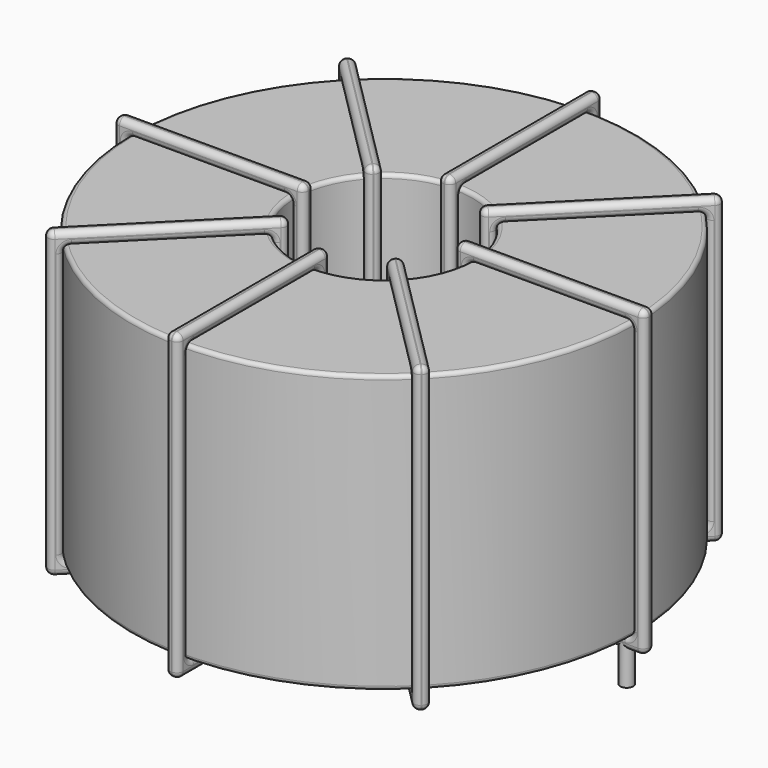
from build123d import *

# Parameters (mm, degrees)
SKETCH001_R       = 0.85
PAD001_DEPTH      = 0.85
PAD001_DEPTH_BACK = 5.2
SKETCH_R          = 32.85
SKETCH_R_2        = 11.516667
PAD_DEPTH         = 36.1
FILLET_R          = 0.5
SKETCH003_W       = 24.733333
SKETCH003_H       = 39.5
SKETCH003_W_2     = 21.333333
SKETCH003_H_2     = 36.1
PAD002_DEPTH      = 0.85
FILLET001_R       = 0.799
SKETCH004_W       = 24.733333
SKETCH004_H       = 39.5
SKETCH004_W_2     = 21.333333
SKETCH004_H_2     = 36.1
PAD003_DEPTH      = 0.85
FILLET002_R       = 0.799
SKETCH005_W       = 24.733333
SKETCH005_H       = 39.5
SKETCH005_W_2     = 21.333333
SKETCH005_H_2     = 36.1
PAD004_DEPTH      = 0.85
FILLET003_R       = 0.799
SKETCH006_W       = 24.733333
SKETCH006_H       = 39.5
SKETCH006_W_2     = 21.333333
SKETCH006_H_2     = 36.1
PAD005_DEPTH      = 0.85
FILLET004_R       = 0.799


with BuildPart() as pad001:
    # Sketch001 → Pad001 (new body, two sides)
    with BuildSketch(Plane.XY.offset(1.35)) as pad001_sk:
        Circle(SKETCH001_R)
        with Locations((63.2, 0)):
            Circle(SKETCH001_R)
    extrude(amount=PAD001_DEPTH)
    extrude(pad001_sk.sketch, amount=-PAD001_DEPTH_BACK)


with BuildPart() as fillet_body:
    # Sketch → Pad (new body)
    with BuildSketch(Plane.XY.offset(2.2)):
        with Locations((31.6, 0)):
            Circle(SKETCH_R)
        with Locations((31.6, 0)):
            Circle(SKETCH_R_2, mode=Mode.SUBTRACT)
    extrude(amount=PAD_DEPTH)

    # Fillet
    fillet_edges = [fillet_body.edges().sort_by_distance(p)[0] for p in [
        (20.083333, 0, 38.3),
        (-1.25, 0, 38.3),
        (-1.25, 0, 2.2),
    ]]
    fillet(fillet_edges, radius=FILLET_R)


with BuildPart() as fillet001:
    # Sketch003 → Pad002 (new body, symmetric)
    with BuildSketch(Plane(origin=(31.6, 0, 0), x_dir=(1, 0, 0), z_dir=(0, -1, 0))):
        with Locations((-22.183333, 20.25)):
            Rectangle(SKETCH003_W, SKETCH003_H)
        with Locations((-22.183333, 20.25)):
            Rectangle(SKETCH003_W_2, SKETCH003_H_2, mode=Mode.SUBTRACT)
        with Locations((22.183333, 20.25)):
            Rectangle(SKETCH003_W, SKETCH003_H)
        with Locations((22.183333, 20.25)):
            Rectangle(SKETCH003_W_2, SKETCH003_H_2, mode=Mode.SUBTRACT)
    extrude(amount=PAD002_DEPTH, both=True)

    # Fillet001
    fillet001_edges = [fillet001.edges().sort_by_distance(p)[0] for p in [
        (20.083333, 0, 38.3),
        (20.083333, 0, 2.2),
        (20.083333, 0.85, 20.25),
        (20.083333, -0.85, 20.25),
        (-2.95, 0, 40),
        (21.783333, 0, 40),
        (9.416667, 0.85, 40),
        (9.416667, -0.85, 40),
        (21.783333, 0, 0.5),
        (21.783333, 0.85, 20.25),
        (21.783333, -0.85, 20.25),
        (43.116667, 0, 38.3),
        (64.45, 0, 38.3),
        (53.783333, 0.85, 38.3),
        (53.783333, -0.85, 38.3),
        (64.45, 0, 2.2),
        (64.45, 0.85, 20.25),
        (64.45, -0.85, 20.25),
        (41.416667, 0, 40),
        (66.15, 0, 40),
        (53.783333, 0.85, 40),
        (53.783333, -0.85, 40),
        (66.15, 0, 0.5),
        (66.15, 0.85, 20.25),
        (66.15, -0.85, 20.25),
        (-1.25, 0, 38.3),
        (9.416667, 0.85, 38.3),
        (9.416667, -0.85, 38.3),
        (43.116667, 0, 2.2),
        (43.116667, 0.85, 20.25),
        (43.116667, -0.85, 20.25),
        (53.783333, 0.85, 2.2),
        (53.783333, -0.85, 2.2),
        (41.416667, 0, 0.5),
        (53.783333, 0.85, 0.5),
        (53.783333, -0.85, 0.5),
        (41.416667, 0.85, 20.25),
        (41.416667, -0.85, 20.25),
        (-2.95, 0, 0.5),
        (9.416667, 0.85, 0.5),
        (9.416667, -0.85, 0.5),
        (-2.95, 0.85, 20.25),
        (-2.95, -0.85, 20.25),
        (-1.25, 0, 2.2),
        (-1.25, 0.85, 20.25),
        (-1.25, -0.85, 20.25),
        (9.416667, 0.85, 2.2),
        (9.416667, -0.85, 2.2),
    ]]
    fillet(fillet001_edges, radius=FILLET001_R)


with BuildPart() as fillet002:
    # Sketch004 → Pad003 (new body, symmetric)
    with BuildSketch(Plane(origin=(31.6, 0, 0), x_dir=(0.707107, 0.707107, 0), z_dir=(0.707107, -0.707107, 0))):
        with Locations((-22.183333, 20.25)):
            Rectangle(SKETCH004_W, SKETCH004_H)
        with Locations((-22.183333, 20.25)):
            Rectangle(SKETCH004_W_2, SKETCH004_H_2, mode=Mode.SUBTRACT)
        with Locations((22.183333, 20.25)):
            Rectangle(SKETCH004_W, SKETCH004_H)
        with Locations((22.183333, 20.25)):
            Rectangle(SKETCH004_W_2, SKETCH004_H_2, mode=Mode.SUBTRACT)
    extrude(amount=PAD003_DEPTH, both=True)

    # Fillet002
    fillet002_edges = [fillet002.edges().sort_by_distance(p)[0] for p in [
        (39.743513, 8.143513, 38.3),
        (54.828458, 23.228458, 2.2),
        (46.684945, 16.287026, 2.2),
        (47.887026, 15.084945, 2.2),
        (56.030539, 24.430539, 0.5),
        (38.541432, 6.941432, 0.5),
        (46.684945, 16.287026, 0.5),
        (47.887026, 15.084945, 0.5),
        (38.541432, 6.941432, 40),
        (37.940391, 7.542472, 20.25),
        (39.142472, 6.340391, 20.25),
        (8.371542, -23.228458, 2.2),
        (8.371542, -23.228458, 38.3),
        (7.770501, -22.627417, 20.25),
        (8.972583, -23.829499, 20.25),
        (23.456487, -8.143513, 2.2),
        (15.312974, -15.084945, 2.2),
        (16.515055, -16.287026, 2.2),
        (24.658568, -6.941432, 40),
        (24.658568, -6.941432, 0.5),
        (24.057528, -6.340391, 20.25),
        (25.259609, -7.542472, 20.25),
        (7.169461, -24.430539, 40),
        (15.312974, -15.084945, 40),
        (16.515055, -16.287026, 40),
        (39.743513, 8.143513, 2.2),
        (39.142472, 8.744554, 20.25),
        (40.344554, 7.542472, 20.25),
        (23.456487, -8.143513, 38.3),
        (15.312974, -15.084945, 38.3),
        (16.515055, -16.287026, 38.3),
        (22.855446, -7.542472, 20.25),
        (24.057528, -8.744554, 20.25),
        (7.169461, -24.430539, 0.5),
        (6.56842, -23.829499, 20.25),
        (7.770501, -25.03158, 20.25),
        (15.312974, -15.084945, 0.5),
        (16.515055, -16.287026, 0.5),
        (56.030539, 24.430539, 40),
        (46.684945, 16.287026, 40),
        (47.887026, 15.084945, 40),
        (55.429499, 25.03158, 20.25),
        (56.63158, 23.829499, 20.25),
        (54.828458, 23.228458, 38.3),
        (46.684945, 16.287026, 38.3),
        (47.887026, 15.084945, 38.3),
        (54.227417, 23.829499, 20.25),
        (55.429499, 22.627417, 20.25),
    ]]
    fillet(fillet002_edges, radius=FILLET002_R)


with BuildPart() as fillet003:
    # Sketch005 → Pad004 (new body, symmetric)
    with BuildSketch(Plane(origin=(31.6, 0, 0), x_dir=(0.707107, -0.707107, 0), z_dir=(-0.707107, -0.707107, 0))):
        with Locations((-22.183333, 20.25)):
            Rectangle(SKETCH005_W, SKETCH005_H)
        with Locations((-22.183333, 20.25)):
            Rectangle(SKETCH005_W_2, SKETCH005_H_2, mode=Mode.SUBTRACT)
        with Locations((22.183333, 20.25)):
            Rectangle(SKETCH005_W, SKETCH005_H)
        with Locations((22.183333, 20.25)):
            Rectangle(SKETCH005_W_2, SKETCH005_H_2, mode=Mode.SUBTRACT)
    extrude(amount=PAD004_DEPTH, both=True)

    # Fillet003
    fillet003_edges = [fillet003.edges().sort_by_distance(p)[0] for p in [
        (23.456487, 8.143513, 38.3),
        (23.456487, 8.143513, 2.2),
        (24.057528, 8.744554, 20.25),
        (22.855446, 7.542472, 20.25),
        (7.169461, 24.430539, 40),
        (24.658568, 6.941432, 40),
        (16.515055, 16.287026, 40),
        (15.312974, 15.084945, 40),
        (24.658568, 6.941432, 0.5),
        (25.259609, 7.542472, 20.25),
        (24.057528, 6.340391, 20.25),
        (39.743513, -8.143513, 38.3),
        (54.828458, -23.228458, 38.3),
        (47.887026, -15.084945, 38.3),
        (46.684945, -16.287026, 38.3),
        (54.828458, -23.228458, 2.2),
        (55.429499, -22.627417, 20.25),
        (54.227417, -23.829499, 20.25),
        (38.541432, -6.941432, 40),
        (56.030539, -24.430539, 40),
        (47.887026, -15.084945, 40),
        (46.684945, -16.287026, 40),
        (56.030539, -24.430539, 0.5),
        (56.63158, -23.829499, 20.25),
        (55.429499, -25.03158, 20.25),
        (8.371542, 23.228458, 38.3),
        (16.515055, 16.287026, 38.3),
        (15.312974, 15.084945, 38.3),
        (39.743513, -8.143513, 2.2),
        (40.344554, -7.542472, 20.25),
        (39.142472, -8.744554, 20.25),
        (47.887026, -15.084945, 2.2),
        (46.684945, -16.287026, 2.2),
        (38.541432, -6.941432, 0.5),
        (47.887026, -15.084945, 0.5),
        (46.684945, -16.287026, 0.5),
        (39.142472, -6.340391, 20.25),
        (37.940391, -7.542472, 20.25),
        (7.169461, 24.430539, 0.5),
        (16.515055, 16.287026, 0.5),
        (15.312974, 15.084945, 0.5),
        (7.770501, 25.03158, 20.25),
        (6.56842, 23.829499, 20.25),
        (8.371542, 23.228458, 2.2),
        (8.972583, 23.829499, 20.25),
        (7.770501, 22.627417, 20.25),
        (16.515055, 16.287026, 2.2),
        (15.312974, 15.084945, 2.2),
    ]]
    fillet(fillet003_edges, radius=FILLET003_R)


with BuildPart() as fillet004:
    # Sketch006 → Pad005 (new body, symmetric)
    with BuildSketch(Plane.YZ.offset(31.6)):
        with Locations((-22.183333, 20.25)):
            Rectangle(SKETCH006_W, SKETCH006_H)
        with Locations((-22.183333, 20.25)):
            Rectangle(SKETCH006_W_2, SKETCH006_H_2, mode=Mode.SUBTRACT)
        with Locations((22.183333, 20.25)):
            Rectangle(SKETCH006_W, SKETCH006_H)
        with Locations((22.183333, 20.25)):
            Rectangle(SKETCH006_W_2, SKETCH006_H_2, mode=Mode.SUBTRACT)
    extrude(amount=PAD005_DEPTH, both=True)

    # Fillet004
    fillet004_edges = [fillet004.edges().sort_by_distance(p)[0] for p in [
        (31.6, -11.516667, 38.3),
        (31.6, -11.516667, 2.2),
        (30.75, -11.516667, 20.25),
        (32.45, -11.516667, 20.25),
        (31.6, -34.55, 40),
        (31.6, -9.816667, 40),
        (30.75, -22.183333, 40),
        (32.45, -22.183333, 40),
        (31.6, -9.816667, 0.5),
        (30.75, -9.816667, 20.25),
        (32.45, -9.816667, 20.25),
        (31.6, 11.516667, 38.3),
        (31.6, 32.85, 38.3),
        (30.75, 22.183333, 38.3),
        (32.45, 22.183333, 38.3),
        (31.6, 32.85, 2.2),
        (30.75, 32.85, 20.25),
        (32.45, 32.85, 20.25),
        (31.6, 9.816667, 40),
        (31.6, 34.55, 40),
        (30.75, 22.183333, 40),
        (32.45, 22.183333, 40),
        (31.6, 34.55, 0.5),
        (30.75, 34.55, 20.25),
        (32.45, 34.55, 20.25),
        (31.6, -32.85, 38.3),
        (30.75, -22.183333, 38.3),
        (32.45, -22.183333, 38.3),
        (31.6, 11.516667, 2.2),
        (30.75, 11.516667, 20.25),
        (32.45, 11.516667, 20.25),
        (30.75, 22.183333, 2.2),
        (32.45, 22.183333, 2.2),
        (31.6, 9.816667, 0.5),
        (30.75, 22.183333, 0.5),
        (32.45, 22.183333, 0.5),
        (30.75, 9.816667, 20.25),
        (32.45, 9.816667, 20.25),
        (31.6, -34.55, 0.5),
        (30.75, -22.183333, 0.5),
        (32.45, -22.183333, 0.5),
        (30.75, -34.55, 20.25),
        (32.45, -34.55, 20.25),
        (31.6, -32.85, 2.2),
        (30.75, -32.85, 20.25),
        (32.45, -32.85, 20.25),
        (30.75, -22.183333, 2.2),
        (32.45, -22.183333, 2.2),
    ]]
    fillet(fillet004_edges, radius=FILLET004_R)


solid = Compound([pad001.part, fillet_body.part, fillet001.part, fillet002.part, fillet003.part, fillet004.part])
